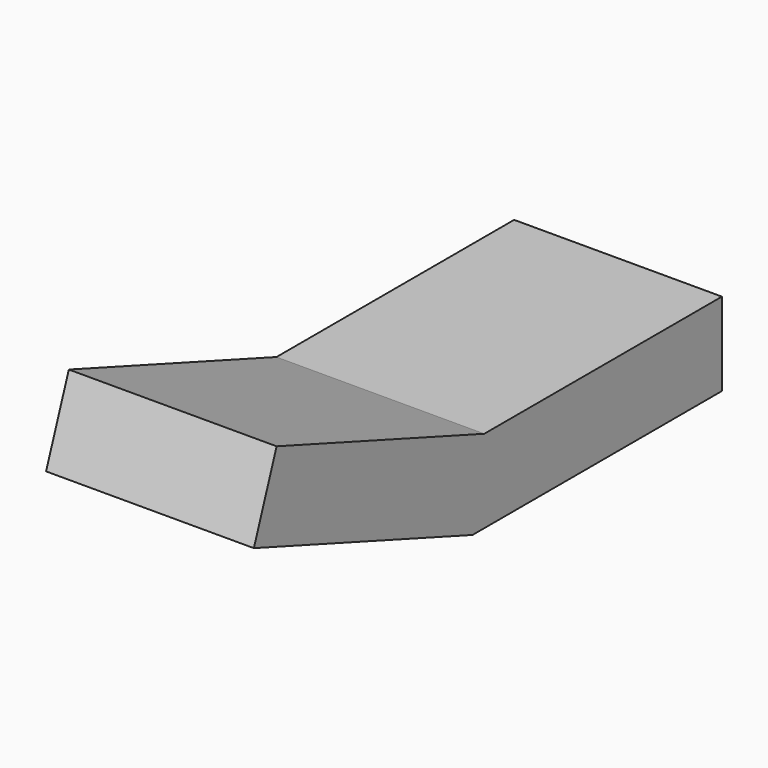
from build123d import *

# Parameters (mm, degrees)
BOX009_W                  = 0.5
BOX009_H                  = 0.75
BOX009_DEPTH              = 0.2
BOX010_W                  = 0.5
BOX010_H                  = 0.7
BOX010_DEPTH              = 0.2
BOX010_PLACEMENT_ANGLE    = 20
FUSION004_PLACEMENT_ANGLE = 180


with BuildPart() as cube009:
    # Box009 → Box009 (new body)
    with BuildSketch(Plane(origin=(0, -1.25, 0), x_dir=(1, 0, 0), z_dir=(0, 0, 1))):
        with Locations((0.25, 0.375)):
            Rectangle(BOX009_W, BOX009_H)
    extrude(amount=BOX009_DEPTH)


with BuildPart() as fusion004:
    # Box010 → Box010 (new body)
    with BuildSketch(Plane.XY):
        with Locations((0.25, 0.35)):
            Rectangle(BOX010_W, BOX010_H)
    extrude(amount=BOX010_DEPTH)


with BuildPart() as fusion004_1:
    # Box010 placement: moved
    add(fusion004.part.moved(Location((0, -0.5, 0))).rotate(Axis((0, -0.5, 0), (1, 0, 0)), BOX010_PLACEMENT_ANGLE))

    # Fusion004: union Cube009
    add(cube009.part)


with BuildPart() as fusion004_2:
    # Fusion004 placement: moved
    add(fusion004_1.part.moved(Location((1.35, 3.5, 0))).rotate(Axis((1.35, 3.5, 0), (0, 0, 1)), FUSION004_PLACEMENT_ANGLE))


solid = fusion004_2.part
